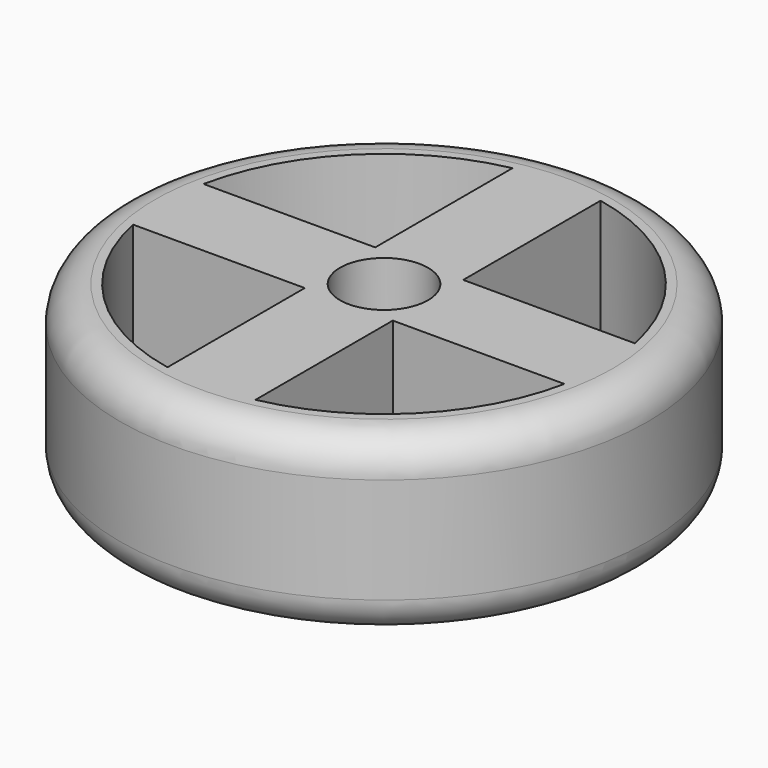
from build123d import *

# Parameters (mm, degrees)
F0_R     = 38.1
F0_R_2   = 6.35
F1_DEPTH = 25.4
F2_R     = 5.08


with BuildPart() as f1:
    # F0 (on Top) → F1 (new body)
    with BuildSketch(Plane.XY):
        Circle(F0_R)
        with BuildLine():
            Line((-31.10852, -6.35), (-6.35, -6.35))
            Line((-6.35, -6.35), (-6.35, -31.10852))
            ThreePointArc((-6.35, -31.10852), (-22.45064, -22.45064), (-31.10852, -6.35))
        make_face(mode=Mode.SUBTRACT)
        with BuildLine():
            Line((6.35, -31.10852), (6.35, -6.35))
            Line((6.35, -6.35), (31.10852, -6.35))
            ThreePointArc((31.10852, -6.35), (22.45064, -22.45064), (6.35, -31.10852))
        make_face(mode=Mode.SUBTRACT)
        with BuildLine():
            Line((-6.35, 31.10852), (-6.35, 6.35))
            Line((-6.35, 6.35), (-31.10852, 6.35))
            ThreePointArc((-31.10852, 6.35), (-22.45064, 22.45064), (-6.35, 31.10852))
        make_face(mode=Mode.SUBTRACT)
        Circle(F0_R_2, mode=Mode.SUBTRACT)
        with BuildLine():
            ThreePointArc((6.35, 31.10852), (22.45064, 22.45064), (31.10852, 6.35))
            Line((31.10852, 6.35), (6.35, 6.35))
            Line((6.35, 6.35), (6.35, 31.10852))
        make_face(mode=Mode.SUBTRACT)
    extrude(amount=F1_DEPTH)

    # F2
    f2_edges = [f1.edges().sort_by_distance(p)[0] for p in [
        (38.1, 0, 12.7),
        (-38.1, 0, 0),
        (-38.1, 0, 25.4),
    ]]
    fillet(f2_edges, radius=F2_R)


solid = f1.part
